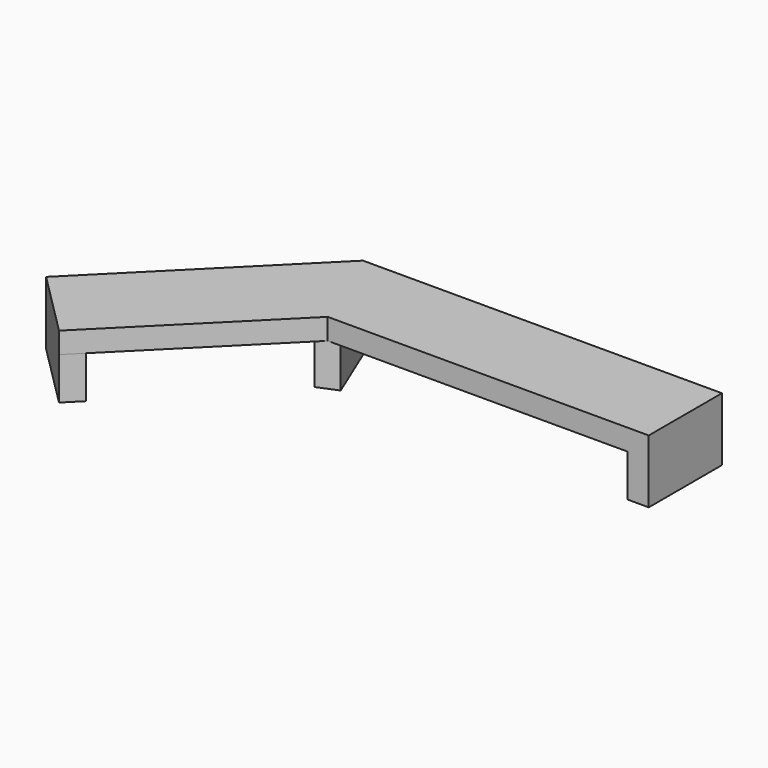
from build123d import *

# Parameters (mm, degrees)
F1_DEPTH = 38.1
F2_W     = 38.1
F2_H     = 165.1
F3_DEPTH = 76.2


with BuildPart() as f1:
    # F0 (on Top) → F1 (new body)
    with BuildSketch(Plane.XY):
        Polygon((647.806231, 82.55), (0, 82.55), (68.386659, -82.55), (647.806231, -82.55), align=None)
        Polygon((68.386659, -82.55), (0, 82.55), (-317.764354, -235.214354), (-201.021024, -351.957684), align=None)
    extrude(amount=F1_DEPTH)

    # F2 (on face) → F3 (join)
    with BuildSketch(Plane(origin=(0, 0, 0), x_dir=(1, 0, 0), z_dir=(0, 0, -1))):
        Polygon((-201.021024, 351.957684), (-317.764354, 235.214354), (-290.823586, 208.273586), (-174.080256, 325.016915), align=None)
        Polygon((20.619571, -82.55), (85.986564, 75.259881), (50.786754, 89.840119), (-14.580239, -67.969761), (0, -82.55), align=None)
        with Locations((628.756231, 0)):
            Rectangle(F2_W, F2_H)
    extrude(amount=F3_DEPTH)


solid = f1.part
